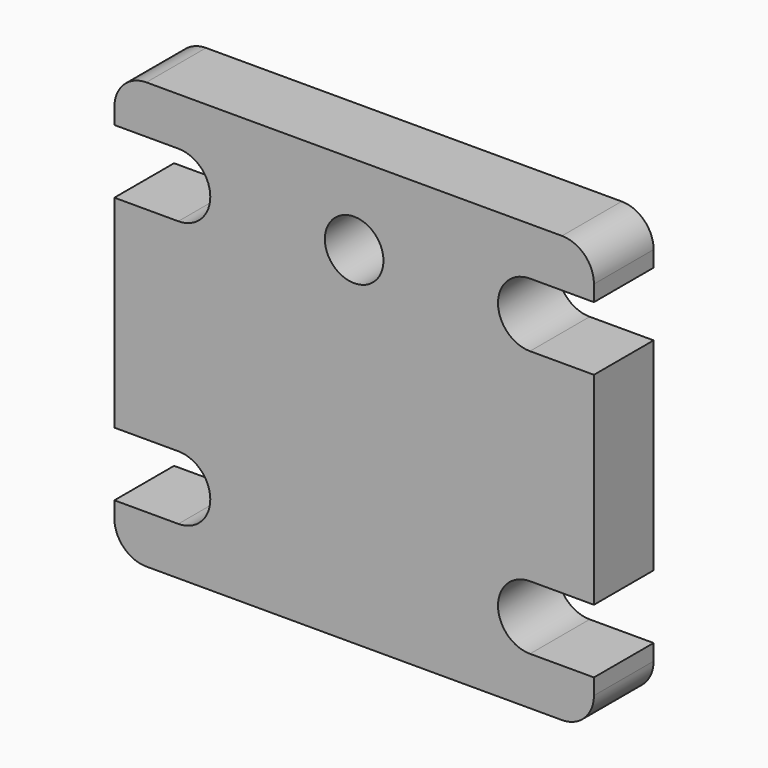
from build123d import *

# Parameters (mm, degrees)
F1_DEPTH = 14
F2_R     = 6
F4_D     = 11


with BuildPart() as f1:
    # F0 (on Front) → F1 (new body)
    with BuildSketch(Plane.XZ):
        with BuildLine():
            Line((45, 31), (45, 40))
            Line((45, 40), (-45, 40))
            Line((-45, 40), (-45, 31))
            Line((-45, 31), (-33, 31))
            ThreePointArc((-33, 31), (-27, 25), (-33, 19))
            Line((-33, 19), (-45, 19))
            Line((-45, 19), (-45, -19))
            Line((-45, -19), (-33, -19))
            ThreePointArc((-33, -19), (-27, -25), (-33, -31))
            Line((-33, -31), (-45, -31))
            Line((-45, -31), (-45, -40))
            Line((-45, -40), (45, -40))
            Line((45, -40), (45, -31))
            Line((45, -31), (33, -31))
            ThreePointArc((33, -31), (27, -25), (33, -19))
            Line((33, -19), (45, -19))
            Line((45, -19), (45, 19))
            Line((45, 19), (33, 19))
            ThreePointArc((33, 19), (27, 25), (33, 31))
            Line((33, 31), (45, 31))
        make_face()
    extrude(amount=F1_DEPTH)

    # F2
    f2_edges = [f1.edges().sort_by_distance(p)[0] for p in [
        (-45, -7, 40),
        (-45, -7, -40),
        (45, -7, 40),
        (45, -7, -40),
    ]]
    fillet(f2_edges, radius=F2_R)

    # F4 (through all)
    with Locations(Plane.XZ.offset(14)):
        with Locations((0, 25)):
            Hole(F4_D / 2)


solid = f1.part
